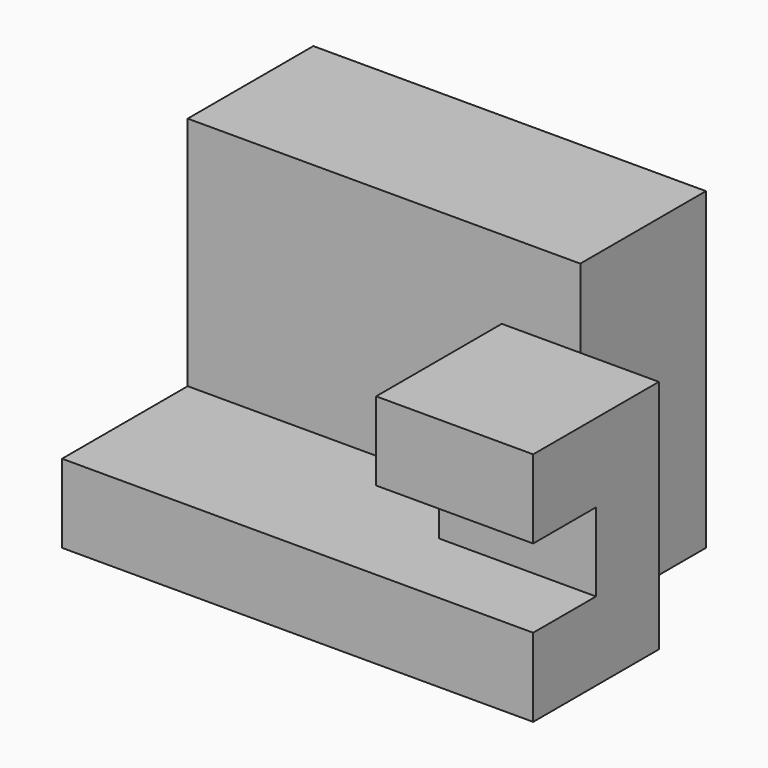
from build123d import *

# Parameters (mm, degrees)
F0_W     = 60
F0_H     = 40
F1_DEPTH = 40
F2_W     = 10
F2_H     = 20
F3_DEPTH = 45
F4_W     = 40
F4_H     = 20
F5_DEPTH = 30
F7_DEPTH = 10
F8_W     = 10
F8_H     = 10
F9_DEPTH = 25


with BuildPart() as f1:
    # F0 (on Top) → F1 (new body)
    with BuildSketch(Plane.XY):
        with Locations((30, 20)):
            Rectangle(F0_W, F0_H)
    extrude(amount=F1_DEPTH)

    # F2 (on face) → F3 (cut)
    with BuildSketch(Plane.XY.offset(40)):
        with Locations((55, 30)):
            Rectangle(F2_W, F2_H)
    extrude(amount=-F3_DEPTH, mode=Mode.SUBTRACT)

    # F4 (on face) → F5 (cut)
    with BuildSketch(Plane.XY.offset(40)):
        with Locations((20, 10)):
            Rectangle(F4_W, F4_H)
    extrude(amount=-F5_DEPTH, mode=Mode.SUBTRACT)

    # F6 (on face) → F7 (cut)
    with BuildSketch(Plane.XY.offset(40)):
        Polygon((50, 20), (40, 20), (40, 0), (60, 0), (60, 20), align=None)
    extrude(amount=-F7_DEPTH, mode=Mode.SUBTRACT)

    # F8 (on face) → F9 (cut)
    with BuildSketch(Plane.YZ.offset(60)):
        with Locations((5, 15)):
            Rectangle(F8_W, F8_H)
    extrude(amount=-F9_DEPTH, mode=Mode.SUBTRACT)


solid = f1.part
